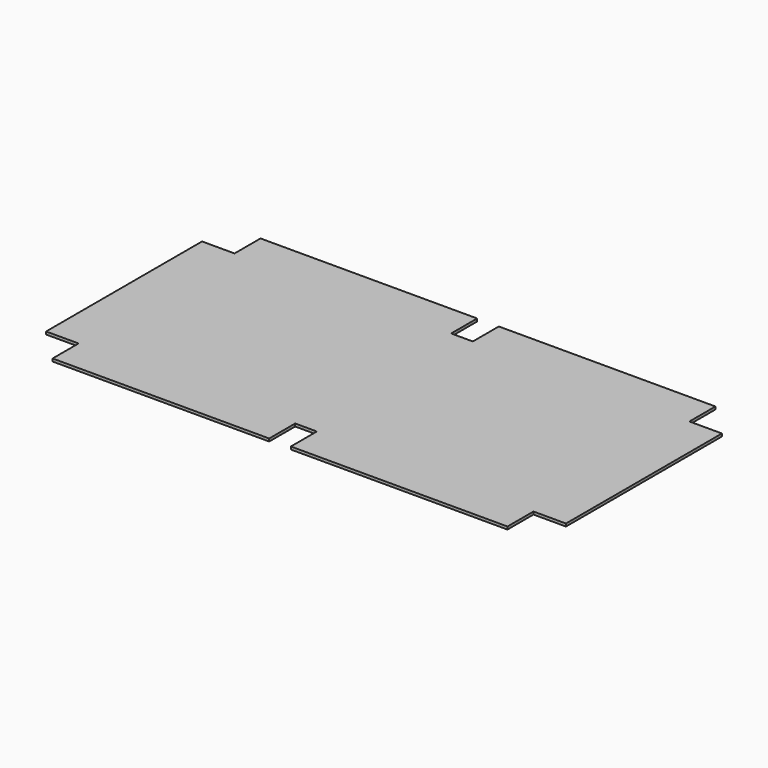
from build123d import *

# Parameters (mm, degrees)
F2_DEPTH = 12.7


with BuildPart() as f2:
    # F0 (on Top) → F2 (new body)
    with BuildSketch(Plane.XY):
        Polygon((-1066.8, -457.2), (-1066.8, -609.6), (-50.8, -609.6), (-50.8, -457.2), (0, -457.2), (50.8, -457.2), (50.8, -609.6), (1066.8, -609.6), (1066.8, -457.2), (1219.2, -457.2), (1219.2, 457.2), (1066.8, 457.2), (1066.8, 609.6), (50.8, 609.6), (50.8, 457.2), (0, 457.2), (-50.8, 457.2), (-50.8, 609.6), (-1066.8, 609.6), (-1066.8, 457.2), (-1219.2, 457.2), (-1219.2, -457.2), align=None)
    extrude(amount=F2_DEPTH)


solid = f2.part
